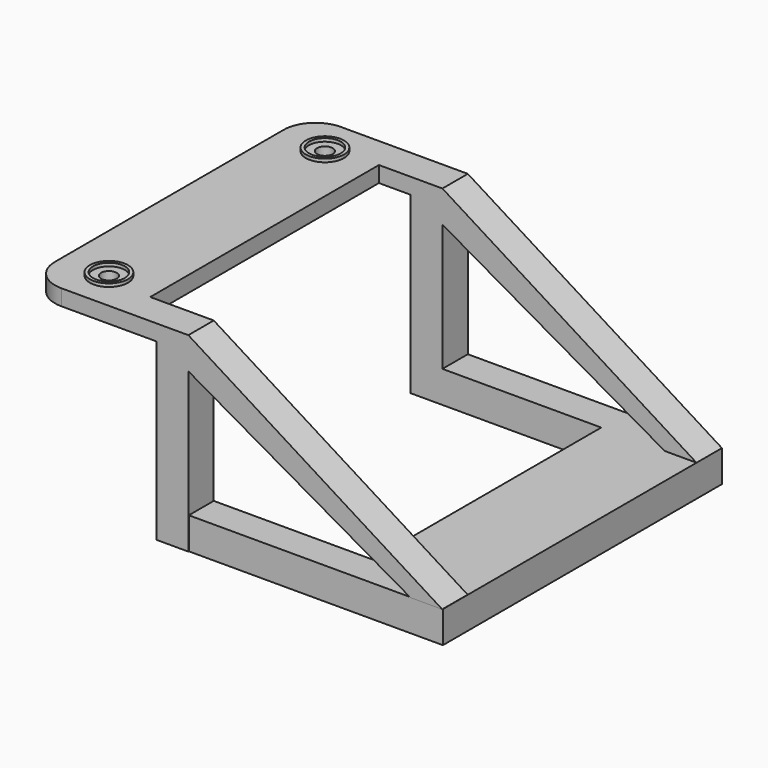
from build123d import *

# Parameters (mm, degrees)
F0_W       = 30
F0_H       = 110
F0_R       = 2.5
F1_DEPTH   = 5
F2_R       = 10
F3_R       = 6
F3_R_2     = 5
F4_DEPTH   = 1
F5_W       = 10
F5_H       = 5
F6_DEPTH   = 20
F7_W       = 10
F7_H       = 10
F8_DEPTH   = 55
F9_W       = 109.809534
F9_H       = 10
F10_DEPTH  = 80
F10_FACE_W = 90
F10_FACE_H = 10
F11_DEPTH  = 50
F13_DEPTH  = 10
F15_DEPTH  = 10


with BuildPart() as f1:
    # F0 (on Top) → F1 (new body)
    with BuildSketch(Plane.XY):
        with Locations((-53.017432, -53.040362)):
            Rectangle(F0_W, F0_H)
        with Locations((-53.017432, -95.540362)):
            Circle(F0_R, mode=Mode.SUBTRACT)
        with Locations((-53.017432, -10.540362)):
            Circle(F0_R, mode=Mode.SUBTRACT)
    extrude(amount=F1_DEPTH)

    # F2
    f2_edges = [f1.edges().sort_by_distance(p)[0] for p in [
        (-68.017432, -108.040362, 2.5),
        (-68.017432, 1.959638, 2.5),
    ]]
    fillet(f2_edges, radius=F2_R)

    # F3 (on face) → F4 (join)
    with BuildSketch(Plane.XY.offset(5)):
        with Locations((-53.017432, -10.540362)):
            Circle(F3_R)
        with Locations((-53.017432, -10.540362)):
            Circle(F3_R_2, mode=Mode.SUBTRACT)
        with Locations((-53.017432, -95.540362)):
            Circle(F3_R)
        with Locations((-53.017432, -95.540362)):
            Circle(F3_R_2, mode=Mode.SUBTRACT)
    extrude(amount=F4_DEPTH)

    # F5 (on face) → F6 (join)
    with BuildSketch(Plane.YZ.offset(-38.017432)):
        with Locations((-103.040362, 2.5)):
            Rectangle(F5_W, F5_H)
        with Locations((-3.040362, 2.5)):
            Rectangle(F5_W, F5_H)
    extrude(amount=F6_DEPTH)

    # F7 (on face) → F8 (join)
    with BuildSketch(Plane(origin=(0, 0, 0), x_dir=(1, 0, 0), z_dir=(0, 0, -1))):
        with Locations((-23.017432, 3.040362)):
            Rectangle(F7_W, F7_H)
        with Locations((-23.017432, 103.040362)):
            Rectangle(F7_W, F7_H)
    extrude(amount=F8_DEPTH)

    # F9 (on face) → F10 (join)
    with BuildSketch(Plane.YZ.offset(-18.017432)):
        with Locations((-52.945129, -50)):
            Rectangle(F9_W, F9_H)
    extrude(amount=F10_DEPTH)

    # F10_face (on face) → F11 (cut)
    with BuildSketch(Plane(origin=(-18.017432, -53.040362, -50), x_dir=(0, 1, 0), z_dir=(-1, 0, 0))):
        Rectangle(F10_FACE_W, F10_FACE_H)
    extrude(amount=-F11_DEPTH, mode=Mode.SUBTRACT)

    # F12 (on face) → F13 (join)
    with BuildSketch(Plane(origin=(0, 1.959638, 0), x_dir=(-1, 0, 0), z_dir=(0, 1, 0))):
        Polygon((18.017432, -5), (18.017432, 5), (-61.982568, -45), (-51.982568, -45), align=None)
    extrude(amount=-F13_DEPTH)

    # F14 (on face) → F15 (join)
    with BuildSketch(Plane(origin=(0, -98.040362, 0), x_dir=(-1, 0, 0), z_dir=(0, 1, 0))):
        Polygon((18.017432, -5), (18.017432, 5), (-61.925042, -45), (-51.925042, -45), align=None)
    extrude(amount=-F15_DEPTH)


solid = f1.part
